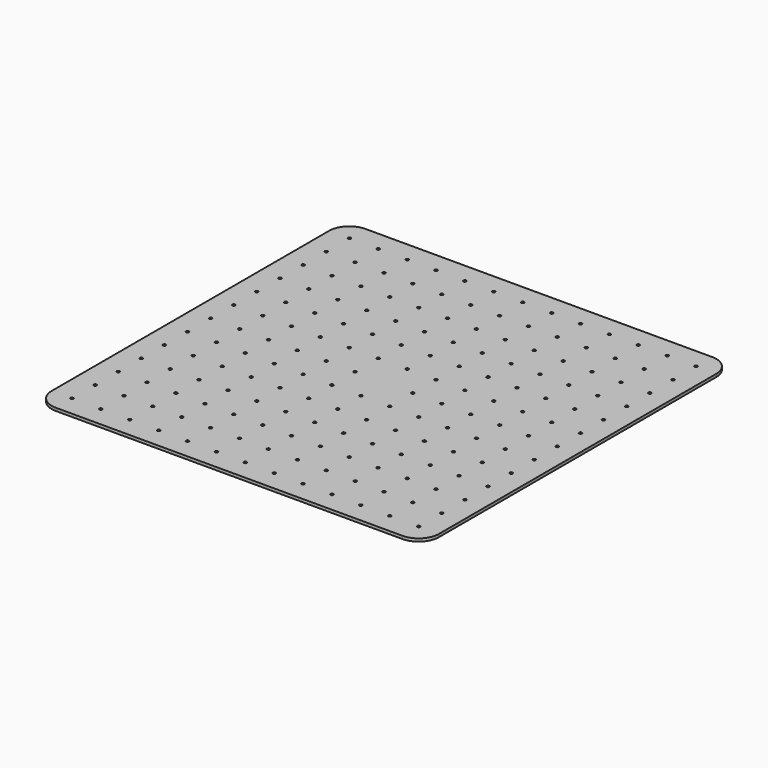
from build123d import *

# Parameters (mm, degrees)
F0_R     = 0.5
F1_DEPTH = 1
F2_R     = 1.082842
F3_DEPTH = 1


with BuildPart() as f1:
    # F0 (on Top) → F1 (new body)
    with BuildSketch(Plane.XY):
        with BuildLine():
            ThreePointArc((-67, -60), (-64.949747, -64.949747), (-60, -67))
            Line((-60, -67), (60, -67))
            ThreePointArc((60, -67), (64.949747, -64.949747), (67, -60))
            Line((67, -60), (67, 60))
            ThreePointArc((67, 60), (64.949747, 64.949747), (60, 67))
            Line((60, 67), (-60, 67))
            ThreePointArc((-60, 67), (-64.949747, 64.949747), (-67, 60))
            Line((-67, 60), (-67, -60))
        make_face()
        with Locations((-60, -60)):
            Circle(F0_R, mode=Mode.SUBTRACT)
        with Locations((-50, -60)):
            Circle(F0_R, mode=Mode.SUBTRACT)
        with Locations((-40, -60)):
            Circle(F0_R, mode=Mode.SUBTRACT)
        with Locations((-60, -50)):
            Circle(F0_R, mode=Mode.SUBTRACT)
        with Locations((-60, -40)):
            Circle(F0_R, mode=Mode.SUBTRACT)
        with Locations((-50, -50)):
            Circle(F0_R, mode=Mode.SUBTRACT)
        with Locations((-40, -50)):
            Circle(F0_R, mode=Mode.SUBTRACT)
        with Locations((-50, -40)):
            Circle(F0_R, mode=Mode.SUBTRACT)
        with Locations((-40, -40)):
            Circle(F0_R, mode=Mode.SUBTRACT)
        with Locations((-30, -60)):
            Circle(F0_R, mode=Mode.SUBTRACT)
        with Locations((-20, -60)):
            Circle(F0_R, mode=Mode.SUBTRACT)
        with Locations((-10, -60)):
            Circle(F0_R, mode=Mode.SUBTRACT)
        with Locations((-30, -50)):
            Circle(F0_R, mode=Mode.SUBTRACT)
        with Locations((-20, -50)):
            Circle(F0_R, mode=Mode.SUBTRACT)
        with Locations((-30, -40)):
            Circle(F0_R, mode=Mode.SUBTRACT)
        with Locations((-20, -40)):
            Circle(F0_R, mode=Mode.SUBTRACT)
        with Locations((-10, -50)):
            Circle(F0_R, mode=Mode.SUBTRACT)
        with Locations((-10, -40)):
            Circle(F0_R, mode=Mode.SUBTRACT)
        with Locations((-60, -30)):
            Circle(F0_R, mode=Mode.SUBTRACT)
        with Locations((-60, -20)):
            Circle(F0_R, mode=Mode.SUBTRACT)
        with Locations((-50, -30)):
            Circle(F0_R, mode=Mode.SUBTRACT)
        with Locations((-40, -30)):
            Circle(F0_R, mode=Mode.SUBTRACT)
        with Locations((-50, -20)):
            Circle(F0_R, mode=Mode.SUBTRACT)
        with Locations((-40, -20)):
            Circle(F0_R, mode=Mode.SUBTRACT)
        with Locations((-60, -10)):
            Circle(F0_R, mode=Mode.SUBTRACT)
        with Locations((-50, -10)):
            Circle(F0_R, mode=Mode.SUBTRACT)
        with Locations((-40, -10)):
            Circle(F0_R, mode=Mode.SUBTRACT)
        with Locations((-30, -30)):
            Circle(F0_R, mode=Mode.SUBTRACT)
        with Locations((-20, -30)):
            Circle(F0_R, mode=Mode.SUBTRACT)
        with Locations((-30, -20)):
            Circle(F0_R, mode=Mode.SUBTRACT)
        with Locations((-20, -20)):
            Circle(F0_R, mode=Mode.SUBTRACT)
        with Locations((-10, -30)):
            Circle(F0_R, mode=Mode.SUBTRACT)
        with Locations((-10, -20)):
            Circle(F0_R, mode=Mode.SUBTRACT)
        with Locations((-30, -10)):
            Circle(F0_R, mode=Mode.SUBTRACT)
        with Locations((-20, -10)):
            Circle(F0_R, mode=Mode.SUBTRACT)
        with Locations((-10, -10)):
            Circle(F0_R, mode=Mode.SUBTRACT)
        with Locations((0, -60)):
            Circle(F0_R, mode=Mode.SUBTRACT)
        with Locations((10, -60)):
            Circle(F0_R, mode=Mode.SUBTRACT)
        with Locations((20, -60)):
            Circle(F0_R, mode=Mode.SUBTRACT)
        with Locations((30, -60)):
            Circle(F0_R, mode=Mode.SUBTRACT)
        with Locations((0, -50)):
            Circle(F0_R, mode=Mode.SUBTRACT)
        with Locations((10, -50)):
            Circle(F0_R, mode=Mode.SUBTRACT)
        with Locations((0, -40)):
            Circle(F0_R, mode=Mode.SUBTRACT)
        with Locations((10, -40)):
            Circle(F0_R, mode=Mode.SUBTRACT)
        with Locations((20, -50)):
            Circle(F0_R, mode=Mode.SUBTRACT)
        with Locations((30, -50)):
            Circle(F0_R, mode=Mode.SUBTRACT)
        with Locations((20, -40)):
            Circle(F0_R, mode=Mode.SUBTRACT)
        with Locations((30, -40)):
            Circle(F0_R, mode=Mode.SUBTRACT)
        with Locations((40, -60)):
            Circle(F0_R, mode=Mode.SUBTRACT)
        with Locations((50, -60)):
            Circle(F0_R, mode=Mode.SUBTRACT)
        with Locations((60, -60)):
            Circle(F0_R, mode=Mode.SUBTRACT)
        with Locations((40, -50)):
            Circle(F0_R, mode=Mode.SUBTRACT)
        with Locations((50, -50)):
            Circle(F0_R, mode=Mode.SUBTRACT)
        with Locations((40, -40)):
            Circle(F0_R, mode=Mode.SUBTRACT)
        with Locations((50, -40)):
            Circle(F0_R, mode=Mode.SUBTRACT)
        with Locations((60, -50)):
            Circle(F0_R, mode=Mode.SUBTRACT)
        with Locations((60, -40)):
            Circle(F0_R, mode=Mode.SUBTRACT)
        with Locations((0, -30)):
            Circle(F0_R, mode=Mode.SUBTRACT)
        with Locations((10, -30)):
            Circle(F0_R, mode=Mode.SUBTRACT)
        with Locations((0, -20)):
            Circle(F0_R, mode=Mode.SUBTRACT)
        with Locations((10, -20)):
            Circle(F0_R, mode=Mode.SUBTRACT)
        with Locations((20, -30)):
            Circle(F0_R, mode=Mode.SUBTRACT)
        with Locations((30, -30)):
            Circle(F0_R, mode=Mode.SUBTRACT)
        with Locations((20, -20)):
            Circle(F0_R, mode=Mode.SUBTRACT)
        with Locations((30, -20)):
            Circle(F0_R, mode=Mode.SUBTRACT)
        with Locations((0, -10)):
            Circle(F0_R, mode=Mode.SUBTRACT)
        with Locations((10, -10)):
            Circle(F0_R, mode=Mode.SUBTRACT)
        with Locations((20, -10)):
            Circle(F0_R, mode=Mode.SUBTRACT)
        with Locations((30, -10)):
            Circle(F0_R, mode=Mode.SUBTRACT)
        with Locations((40, -30)):
            Circle(F0_R, mode=Mode.SUBTRACT)
        with Locations((50, -30)):
            Circle(F0_R, mode=Mode.SUBTRACT)
        with Locations((40, -20)):
            Circle(F0_R, mode=Mode.SUBTRACT)
        with Locations((50, -20)):
            Circle(F0_R, mode=Mode.SUBTRACT)
        with Locations((60, -30)):
            Circle(F0_R, mode=Mode.SUBTRACT)
        with Locations((60, -20)):
            Circle(F0_R, mode=Mode.SUBTRACT)
        with Locations((40, -10)):
            Circle(F0_R, mode=Mode.SUBTRACT)
        with Locations((50, -10)):
            Circle(F0_R, mode=Mode.SUBTRACT)
        with Locations((60, -10)):
            Circle(F0_R, mode=Mode.SUBTRACT)
        with Locations((-60, 0)):
            Circle(F0_R, mode=Mode.SUBTRACT)
        with Locations((-60, 10)):
            Circle(F0_R, mode=Mode.SUBTRACT)
        with Locations((-50, 0)):
            Circle(F0_R, mode=Mode.SUBTRACT)
        with Locations((-40, 0)):
            Circle(F0_R, mode=Mode.SUBTRACT)
        with Locations((-50, 10)):
            Circle(F0_R, mode=Mode.SUBTRACT)
        with Locations((-40, 10)):
            Circle(F0_R, mode=Mode.SUBTRACT)
        with Locations((-60, 20)):
            Circle(F0_R, mode=Mode.SUBTRACT)
        with Locations((-60, 30)):
            Circle(F0_R, mode=Mode.SUBTRACT)
        with Locations((-50, 20)):
            Circle(F0_R, mode=Mode.SUBTRACT)
        with Locations((-40, 20)):
            Circle(F0_R, mode=Mode.SUBTRACT)
        with Locations((-50, 30)):
            Circle(F0_R, mode=Mode.SUBTRACT)
        with Locations((-40, 30)):
            Circle(F0_R, mode=Mode.SUBTRACT)
        with Locations((-30, 0)):
            Circle(F0_R, mode=Mode.SUBTRACT)
        with Locations((-20, 0)):
            Circle(F0_R, mode=Mode.SUBTRACT)
        with Locations((-30, 10)):
            Circle(F0_R, mode=Mode.SUBTRACT)
        with Locations((-20, 10)):
            Circle(F0_R, mode=Mode.SUBTRACT)
        with Locations((-10, 0)):
            Circle(F0_R, mode=Mode.SUBTRACT)
        with Locations((-10, 10)):
            Circle(F0_R, mode=Mode.SUBTRACT)
        with Locations((-30, 20)):
            Circle(F0_R, mode=Mode.SUBTRACT)
        with Locations((-20, 20)):
            Circle(F0_R, mode=Mode.SUBTRACT)
        with Locations((-30, 30)):
            Circle(F0_R, mode=Mode.SUBTRACT)
        with Locations((-20, 30)):
            Circle(F0_R, mode=Mode.SUBTRACT)
        with Locations((-10, 20)):
            Circle(F0_R, mode=Mode.SUBTRACT)
        with Locations((-10, 30)):
            Circle(F0_R, mode=Mode.SUBTRACT)
        with Locations((-60, 40)):
            Circle(F0_R, mode=Mode.SUBTRACT)
        with Locations((-60, 50)):
            Circle(F0_R, mode=Mode.SUBTRACT)
        with Locations((-50, 40)):
            Circle(F0_R, mode=Mode.SUBTRACT)
        with Locations((-40, 40)):
            Circle(F0_R, mode=Mode.SUBTRACT)
        with Locations((-50, 50)):
            Circle(F0_R, mode=Mode.SUBTRACT)
        with Locations((-40, 50)):
            Circle(F0_R, mode=Mode.SUBTRACT)
        with Locations((-60, 60)):
            Circle(F0_R, mode=Mode.SUBTRACT)
        with Locations((-50, 60)):
            Circle(F0_R, mode=Mode.SUBTRACT)
        with Locations((-40, 60)):
            Circle(F0_R, mode=Mode.SUBTRACT)
        with Locations((-30, 40)):
            Circle(F0_R, mode=Mode.SUBTRACT)
        with Locations((-20, 40)):
            Circle(F0_R, mode=Mode.SUBTRACT)
        with Locations((-30, 50)):
            Circle(F0_R, mode=Mode.SUBTRACT)
        with Locations((-20, 50)):
            Circle(F0_R, mode=Mode.SUBTRACT)
        with Locations((-10, 40)):
            Circle(F0_R, mode=Mode.SUBTRACT)
        with Locations((-10, 50)):
            Circle(F0_R, mode=Mode.SUBTRACT)
        with Locations((-30, 60)):
            Circle(F0_R, mode=Mode.SUBTRACT)
        with Locations((-20, 60)):
            Circle(F0_R, mode=Mode.SUBTRACT)
        with Locations((-10, 60)):
            Circle(F0_R, mode=Mode.SUBTRACT)
        Circle(F0_R, mode=Mode.SUBTRACT)
        with Locations((10, 0)):
            Circle(F0_R, mode=Mode.SUBTRACT)
        with Locations((0, 10)):
            Circle(F0_R, mode=Mode.SUBTRACT)
        with Locations((10, 10)):
            Circle(F0_R, mode=Mode.SUBTRACT)
        with Locations((20, 0)):
            Circle(F0_R, mode=Mode.SUBTRACT)
        with Locations((30, 0)):
            Circle(F0_R, mode=Mode.SUBTRACT)
        with Locations((20, 10)):
            Circle(F0_R, mode=Mode.SUBTRACT)
        with Locations((30, 10)):
            Circle(F0_R, mode=Mode.SUBTRACT)
        with Locations((0, 20)):
            Circle(F0_R, mode=Mode.SUBTRACT)
        with Locations((10, 20)):
            Circle(F0_R, mode=Mode.SUBTRACT)
        with Locations((0, 30)):
            Circle(F0_R, mode=Mode.SUBTRACT)
        with Locations((10, 30)):
            Circle(F0_R, mode=Mode.SUBTRACT)
        with Locations((20, 20)):
            Circle(F0_R, mode=Mode.SUBTRACT)
        with Locations((30, 20)):
            Circle(F0_R, mode=Mode.SUBTRACT)
        with Locations((20, 30)):
            Circle(F0_R, mode=Mode.SUBTRACT)
        with Locations((30, 30)):
            Circle(F0_R, mode=Mode.SUBTRACT)
        with Locations((40, 0)):
            Circle(F0_R, mode=Mode.SUBTRACT)
        with Locations((50, 0)):
            Circle(F0_R, mode=Mode.SUBTRACT)
        with Locations((40, 10)):
            Circle(F0_R, mode=Mode.SUBTRACT)
        with Locations((50, 10)):
            Circle(F0_R, mode=Mode.SUBTRACT)
        with Locations((60, 0)):
            Circle(F0_R, mode=Mode.SUBTRACT)
        with Locations((60, 10)):
            Circle(F0_R, mode=Mode.SUBTRACT)
        with Locations((40, 20)):
            Circle(F0_R, mode=Mode.SUBTRACT)
        with Locations((50, 20)):
            Circle(F0_R, mode=Mode.SUBTRACT)
        with Locations((40, 30)):
            Circle(F0_R, mode=Mode.SUBTRACT)
        with Locations((50, 30)):
            Circle(F0_R, mode=Mode.SUBTRACT)
        with Locations((60, 20)):
            Circle(F0_R, mode=Mode.SUBTRACT)
        with Locations((60, 30)):
            Circle(F0_R, mode=Mode.SUBTRACT)
        with Locations((0, 40)):
            Circle(F0_R, mode=Mode.SUBTRACT)
        with Locations((10, 40)):
            Circle(F0_R, mode=Mode.SUBTRACT)
        with Locations((0, 50)):
            Circle(F0_R, mode=Mode.SUBTRACT)
        with Locations((10, 50)):
            Circle(F0_R, mode=Mode.SUBTRACT)
        with Locations((20, 40)):
            Circle(F0_R, mode=Mode.SUBTRACT)
        with Locations((30, 40)):
            Circle(F0_R, mode=Mode.SUBTRACT)
        with Locations((20, 50)):
            Circle(F0_R, mode=Mode.SUBTRACT)
        with Locations((30, 50)):
            Circle(F0_R, mode=Mode.SUBTRACT)
        with Locations((0, 60)):
            Circle(F0_R, mode=Mode.SUBTRACT)
        with Locations((10, 60)):
            Circle(F0_R, mode=Mode.SUBTRACT)
        with Locations((20, 60)):
            Circle(F0_R, mode=Mode.SUBTRACT)
        with Locations((30, 60)):
            Circle(F0_R, mode=Mode.SUBTRACT)
        with Locations((40, 40)):
            Circle(F0_R, mode=Mode.SUBTRACT)
        with Locations((50, 40)):
            Circle(F0_R, mode=Mode.SUBTRACT)
        with Locations((40, 50)):
            Circle(F0_R, mode=Mode.SUBTRACT)
        with Locations((50, 50)):
            Circle(F0_R, mode=Mode.SUBTRACT)
        with Locations((60, 40)):
            Circle(F0_R, mode=Mode.SUBTRACT)
        with Locations((60, 50)):
            Circle(F0_R, mode=Mode.SUBTRACT)
        with Locations((40, 60)):
            Circle(F0_R, mode=Mode.SUBTRACT)
        with Locations((50, 60)):
            Circle(F0_R, mode=Mode.SUBTRACT)
        with Locations((60, 60)):
            Circle(F0_R, mode=Mode.SUBTRACT)
    extrude(amount=F1_DEPTH)

    # F2 (on face) → F3 (join)
    with BuildSketch(Plane.XY.offset(1)):
        Circle(F2_R)
    extrude(amount=-F3_DEPTH)


solid = f1.part
